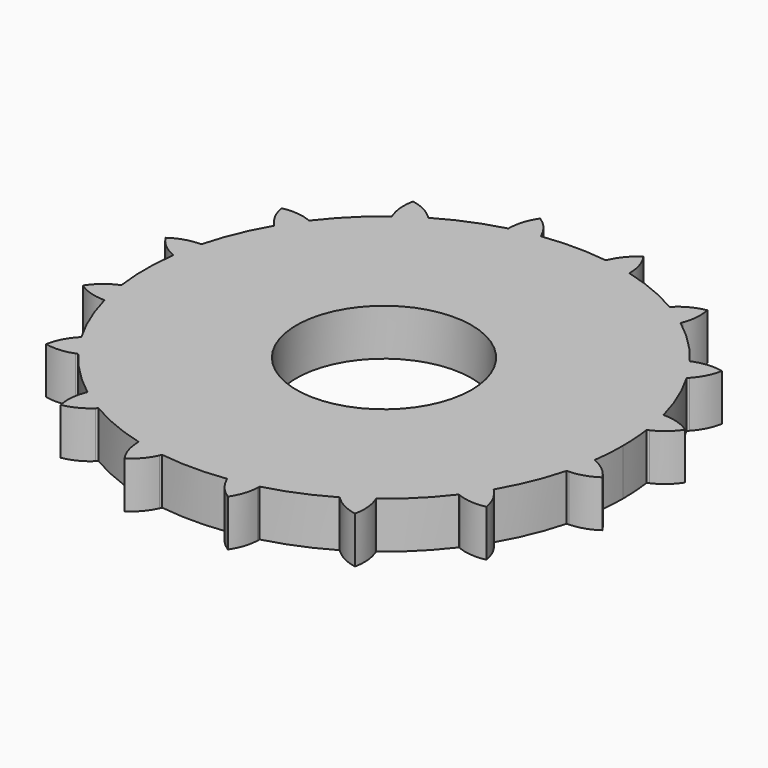
from build123d import *

# Parameters (mm, degrees)
F0_R     = 44.45
F0_R_2   = 25.4
F0_R_3   = 11.9340457022
F1_DEPTH = 6.35
F3_DEPTH = 6.35


with BuildPart() as f1:
    # F0 (on Top) → F1 (new body)
    with BuildSketch(Plane.XY):
        Circle(F0_R)
        Circle(F0_R_2, mode=Mode.SUBTRACT)
        Circle(F0_R_2)
        Circle(F0_R_3, mode=Mode.SUBTRACT)
    extrude(amount=F1_DEPTH)

    # F2 (on face) → F3 (intersect)
    with BuildSketch(Plane.XY.offset(6.35)):
        with BuildLine():
            ThreePointArc((32.2468627383, -4.4327027358), (32.4742021983, -2.2215313627), (32.5501, 0))
            ThreePointArc((32.5501, 0), (32.4742021983, 2.2215313627), (32.2468627383, 4.4327027358))
            ThreePointArc((32.2468627383, 4.4327027358), (31.1168279297, 3.8288728943), (30.0699408338, 3.0902142758))
            ThreePointArc((30.0699408338, 3.0902142758), (28.5877, 0), (30.0699408338, -3.0902142758))
            ThreePointArc((30.0699408338, -3.0902142758), (31.1168279297, -3.8288728943), (32.2468627383, -4.4327027358))
        make_face()
        with BuildLine():
            ThreePointArc((30.0699408338, 3.0902142758), (31.1168279297, 3.8288728943), (32.2468627383, 4.4327027358))
            ThreePointArc((32.2468627383, 4.4327027358), (31.9246589557, 6.3502094907), (31.4885383693, 8.2450567844))
            ThreePointArc((31.4885383693, 8.2450567844), (30.2134466622, 8.3704772169), (28.963576686, 8.6522824488))
            ThreePointArc((28.963576686, 8.6522824488), (26.4115909116, 10.9400391594), (26.5984290744, 14.3622538898))
            ThreePointArc((26.5984290744, 14.3622538898), (27.2829542197, 15.4453118161), (28.0958945741, 16.4356234471))
            ThreePointArc((28.0958945741, 16.4356234471), (27.0644190274, 18.0838666418), (25.9363694778, 19.6675811508))
            ThreePointArc((25.9363694778, 19.6675811508), (24.710342026, 19.2954980503), (23.4477705432, 19.0775476037))
            ThreePointArc((23.4477705432, 19.0775476037), (20.2145565285, 20.2145565285), (19.0775476037, 23.4477705432))
            ThreePointArc((19.0775476037, 23.4477705432), (19.2954980503, 24.710342026), (19.6675811508, 25.9363694778))
            ThreePointArc((19.6675811508, 25.9363694778), (18.0838666418, 27.0644190274), (16.4356234471, 28.0958945741))
            ThreePointArc((16.4356234471, 28.0958945741), (15.4453118161, 27.2829542197), (14.3622538898, 26.5984290744))
            ThreePointArc((14.3622538898, 26.5984290744), (10.9400391594, 26.4115909116), (8.6522824488, 28.963576686))
            ThreePointArc((8.6522824488, 28.963576686), (8.3704772169, 30.2134466622), (8.2450567844, 31.4885383693))
            ThreePointArc((8.2450567844, 31.4885383693), (6.3502094907, 31.9246589557), (4.4327027358, 32.2468627383))
            ThreePointArc((4.4327027358, 32.2468627383), (3.8288728943, 31.1168279297), (3.0902142758, 30.0699408338))
            ThreePointArc((3.0902142758, 30.0699408338), (0, 28.5877), (-3.0902142758, 30.0699408338))
            ThreePointArc((-3.0902142758, 30.0699408338), (-3.8288728943, 31.1168279297), (-4.4327027358, 32.2468627383))
            ThreePointArc((-4.4327027358, 32.2468627383), (-6.3502094907, 31.9246589557), (-8.2450567844, 31.4885383693))
            ThreePointArc((-8.2450567844, 31.4885383693), (-8.3704772169, 30.2134466622), (-8.6522824488, 28.963576686))
            ThreePointArc((-8.6522824488, 28.963576686), (-10.9400391594, 26.4115909116), (-14.3622538898, 26.5984290744))
            ThreePointArc((-14.3622538898, 26.5984290744), (-15.4453118161, 27.2829542197), (-16.4356234471, 28.0958945741))
            ThreePointArc((-16.4356234471, 28.0958945741), (-18.0838666418, 27.0644190274), (-19.6675811508, 25.9363694778))
            ThreePointArc((-19.6675811508, 25.9363694778), (-19.2954980503, 24.710342026), (-19.0775476037, 23.4477705432))
            ThreePointArc((-19.0775476037, 23.4477705432), (-20.2145565285, 20.2145565285), (-23.4477705432, 19.0775476037))
            ThreePointArc((-23.4477705432, 19.0775476037), (-24.710342026, 19.2954980503), (-25.9363694778, 19.6675811508))
            ThreePointArc((-25.9363694778, 19.6675811508), (-27.0644190274, 18.0838666418), (-28.0958945741, 16.4356234471))
            ThreePointArc((-28.0958945741, 16.4356234471), (-27.2829542197, 15.4453118161), (-26.5984290744, 14.3622538898))
            ThreePointArc((-26.5984290744, 14.3622538898), (-26.4115909116, 10.9400391594), (-28.963576686, 8.6522824488))
            ThreePointArc((-28.963576686, 8.6522824488), (-30.2134466622, 8.3704772169), (-31.4885383693, 8.2450567844))
            ThreePointArc((-31.4885383693, 8.2450567844), (-31.9246589557, 6.3502094907), (-32.2468627383, 4.4327027358))
            ThreePointArc((-32.2468627383, 4.4327027358), (-31.1168279297, 3.8288728943), (-30.0699408338, 3.0902142758))
            ThreePointArc((-30.0699408338, 3.0902142758), (-28.5877, 0), (-30.0699408338, -3.0902142758))
            ThreePointArc((-30.0699408338, -3.0902142758), (-31.1168279297, -3.8288728943), (-32.2468627383, -4.4327027358))
            ThreePointArc((-32.2468627383, -4.4327027358), (-31.9246589557, -6.3502094907), (-31.4885383693, -8.2450567844))
            ThreePointArc((-31.4885383693, -8.2450567844), (-30.2134466622, -8.3704772169), (-28.963576686, -8.6522824488))
            ThreePointArc((-28.963576686, -8.6522824488), (-26.4115909116, -10.9400391594), (-26.5984290744, -14.3622538898))
            ThreePointArc((-26.5984290744, -14.3622538898), (-27.2829542197, -15.4453118161), (-28.0958945741, -16.4356234471))
            ThreePointArc((-28.0958945741, -16.4356234471), (-27.0644190274, -18.0838666418), (-25.9363694778, -19.6675811508))
            ThreePointArc((-25.9363694778, -19.6675811508), (-24.710342026, -19.2954980503), (-23.4477705432, -19.0775476037))
            ThreePointArc((-23.4477705432, -19.0775476037), (-20.2145565285, -20.2145565285), (-19.0775476037, -23.4477705432))
            ThreePointArc((-19.0775476037, -23.4477705432), (-19.2954980503, -24.710342026), (-19.6675811508, -25.9363694778))
            ThreePointArc((-19.6675811508, -25.9363694778), (-18.0838666418, -27.0644190274), (-16.4356234471, -28.0958945741))
            ThreePointArc((-16.4356234471, -28.0958945741), (-15.4453118161, -27.2829542197), (-14.3622538898, -26.5984290744))
            ThreePointArc((-14.3622538898, -26.5984290744), (-10.9400391594, -26.4115909116), (-8.6522824488, -28.963576686))
            ThreePointArc((-8.6522824488, -28.963576686), (-8.3704772169, -30.2134466622), (-8.2450567844, -31.4885383693))
            ThreePointArc((-8.2450567844, -31.4885383693), (-6.3502094907, -31.9246589557), (-4.4327027358, -32.2468627383))
            ThreePointArc((-4.4327027358, -32.2468627383), (-3.8288728943, -31.1168279297), (-3.0902142758, -30.0699408338))
            ThreePointArc((-3.0902142758, -30.0699408338), (0, -28.5877), (3.0902142758, -30.0699408338))
            ThreePointArc((3.0902142758, -30.0699408338), (3.8288728943, -31.1168279297), (4.4327027358, -32.2468627383))
            ThreePointArc((4.4327027358, -32.2468627383), (6.3502094907, -31.9246589557), (8.2450567844, -31.4885383693))
            ThreePointArc((8.2450567844, -31.4885383693), (8.3704772169, -30.2134466622), (8.6522824488, -28.963576686))
            ThreePointArc((8.6522824488, -28.963576686), (10.9400391594, -26.4115909116), (14.3622538898, -26.5984290744))
            ThreePointArc((14.3622538898, -26.5984290744), (15.4453118161, -27.2829542197), (16.4356234471, -28.0958945741))
            ThreePointArc((16.4356234471, -28.0958945741), (18.0838666418, -27.0644190274), (19.6675811508, -25.9363694778))
            ThreePointArc((19.6675811508, -25.9363694778), (19.2954980503, -24.710342026), (19.0775476037, -23.4477705432))
            ThreePointArc((19.0775476037, -23.4477705432), (20.2145565285, -20.2145565285), (23.4477705432, -19.0775476037))
            ThreePointArc((23.4477705432, -19.0775476037), (24.710342026, -19.2954980503), (25.9363694778, -19.6675811508))
            ThreePointArc((25.9363694778, -19.6675811508), (27.0644190274, -18.0838666418), (28.0958945741, -16.4356234471))
            ThreePointArc((28.0958945741, -16.4356234471), (27.2829542197, -15.4453118161), (26.5984290744, -14.3622538898))
            ThreePointArc((26.5984290744, -14.3622538898), (26.4115909116, -10.9400391594), (28.963576686, -8.6522824488))
            ThreePointArc((28.963576686, -8.6522824488), (30.2134466622, -8.3704772169), (31.4885383693, -8.2450567844))
            ThreePointArc((31.4885383693, -8.2450567844), (31.9246589557, -6.3502094907), (32.2468627383, -4.4327027358))
            ThreePointArc((32.2468627383, -4.4327027358), (31.1168279297, -3.8288728943), (30.0699408338, -3.0902142758))
            ThreePointArc((30.0699408338, -3.0902142758), (28.5877, 0), (30.0699408338, 3.0902142758))
        make_face()
        with BuildLine():
            ThreePointArc((31.4885383693, 8.2450567844), (31.9246589557, 6.3502094907), (32.2468627383, 4.4327027358))
            Line((32.2468627383, 4.4327027358), (32.5415226488, 4.5656185547))
            ThreePointArc((32.5415226488, 4.5656185547), (34.1510381023, 5.5942061718), (35.3980380551, 7.0411075501))
            ThreePointArc((35.3980380551, 7.0411075501), (33.6922551359, 7.900663897), (31.8116333114, 8.2350200457))
            Line((31.8116333114, 8.2350200457), (31.4885383693, 8.2450567844))
        make_face()
        with BuildLine():
            Line((32.5415226488, -4.5656185547), (32.2468627383, -4.4327027358))
            ThreePointArc((32.2468627383, -4.4327027358), (31.9246589557, -6.3502094907), (31.4885383693, -8.2450567844))
            Line((31.4885383693, -8.2450567844), (31.8116333114, -8.2350200457))
            ThreePointArc((31.8116333114, -8.2350200457), (33.6922551359, -7.900663897), (35.3980380551, -7.0411075501))
            ThreePointArc((35.3980380551, -7.0411075501), (34.1510381023, -5.5942061718), (32.5415226488, -4.5656185547))
        make_face()
        with BuildLine():
            ThreePointArc((28.963576686, 8.6522824488), (30.2134466622, 8.3704772169), (31.4885383693, 8.2450567844))
            ThreePointArc((31.4885383693, 8.2450567844), (30.0723711712, 12.4563839918), (28.0958945741, 16.4356234471))
            ThreePointArc((28.0958945741, 16.4356234471), (27.2829542197, 15.4453118161), (26.5984290744, 14.3622538898))
            ThreePointArc((26.5984290744, 14.3622538898), (26.4115909116, 10.9400391594), (28.963576686, 8.6522824488))
        make_face()
        with BuildLine():
            ThreePointArc((28.0958945741, -16.4356234471), (30.0723711712, -12.4563839918), (31.4885383693, -8.2450567844))
            ThreePointArc((31.4885383693, -8.2450567844), (30.2134466622, -8.3704772169), (28.963576686, -8.6522824488))
            ThreePointArc((28.963576686, -8.6522824488), (26.4115909116, -10.9400391594), (26.5984290744, -14.3622538898))
            ThreePointArc((26.5984290744, -14.3622538898), (27.2829542197, -15.4453118161), (28.0958945741, -16.4356234471))
        make_face()
        with BuildLine():
            ThreePointArc((25.9363694778, 19.6675811508), (27.0644190274, 18.0838666418), (28.0958945741, 16.4356234471))
            Line((28.0958945741, 16.4356234471), (28.3172601526, 16.6711831176))
            ThreePointArc((28.3172601526, 16.6711831176), (29.4106350975, 18.2374090626), (30.0090076452, 20.0513778537))
            ThreePointArc((30.0090076452, 20.0513778537), (28.1041317461, 20.1927295073), (26.2387111755, 19.7819514948))
            Line((26.2387111755, 19.7819514948), (25.9363694778, 19.6675811508))
        make_face()
        with BuildLine():
            Line((28.3172601526, -16.6711831176), (28.0958945741, -16.4356234471))
            ThreePointArc((28.0958945741, -16.4356234471), (27.0644190274, -18.0838666418), (25.9363694778, -19.6675811508))
            Line((25.9363694778, -19.6675811508), (26.2387111755, -19.7819514948))
            ThreePointArc((26.2387111755, -19.7819514948), (28.1041317461, -20.1927295073), (30.0090076452, -20.0513778537))
            ThreePointArc((30.0090076452, -20.0513778537), (29.4106350975, -18.2374090626), (28.3172601526, -16.6711831176))
        make_face()
        with BuildLine():
            ThreePointArc((23.4477705432, 19.0775476037), (24.710342026, 19.2954980503), (25.9363694778, 19.6675811508))
            ThreePointArc((25.9363694778, 19.6675811508), (23.0163964383, 23.0163964383), (19.6675811508, 25.9363694778))
            ThreePointArc((19.6675811508, 25.9363694778), (19.2954980503, 24.710342026), (19.0775476037, 23.4477705432))
            ThreePointArc((19.0775476037, 23.4477705432), (20.2145565285, 20.2145565285), (23.4477705432, 19.0775476037))
        make_face()
        with BuildLine():
            ThreePointArc((19.6675811508, -25.9363694778), (23.0163964383, -23.0163964383), (25.9363694778, -19.6675811508))
            ThreePointArc((25.9363694778, -19.6675811508), (24.710342026, -19.2954980503), (23.4477705432, -19.0775476037))
            ThreePointArc((23.4477705432, -19.0775476037), (20.2145565285, -20.2145565285), (19.0775476037, -23.4477705432))
            ThreePointArc((19.0775476037, -23.4477705432), (19.2954980503, -24.710342026), (19.6675811508, -25.9363694778))
        make_face()
        with BuildLine():
            ThreePointArc((16.4356234471, 28.0958945741), (18.0838666418, 27.0644190274), (19.6675811508, 25.9363694778))
            Line((19.6675811508, 25.9363694778), (19.7819514948, 26.2387111755))
            ThreePointArc((19.7819514948, 26.2387111755), (20.1927295073, 28.1041317461), (20.0513778537, 30.0090076452))
            ThreePointArc((20.0513778537, 30.0090076452), (18.2374090626, 29.4106350975), (16.6711831176, 28.3172601526))
            Line((16.6711831176, 28.3172601526), (16.4356234471, 28.0958945741))
        make_face()
        with BuildLine():
            Line((19.7819514948, -26.2387111755), (19.6675811508, -25.9363694778))
            ThreePointArc((19.6675811508, -25.9363694778), (18.0838666418, -27.0644190274), (16.4356234471, -28.0958945741))
            Line((16.4356234471, -28.0958945741), (16.6711831176, -28.3172601526))
            ThreePointArc((16.6711831176, -28.3172601526), (18.2374090626, -29.4106350975), (20.0513778537, -30.0090076452))
            ThreePointArc((20.0513778537, -30.0090076452), (20.1927295073, -28.1041317461), (19.7819514948, -26.2387111755))
        make_face()
        with BuildLine():
            ThreePointArc((14.3622538898, 26.5984290744), (15.4453118161, 27.2829542197), (16.4356234471, 28.0958945741))
            ThreePointArc((16.4356234471, 28.0958945741), (12.4563839918, 30.0723711712), (8.2450567844, 31.4885383693))
            ThreePointArc((8.2450567844, 31.4885383693), (8.3704772169, 30.2134466622), (8.6522824488, 28.963576686))
            ThreePointArc((8.6522824488, 28.963576686), (10.9400391594, 26.4115909116), (14.3622538898, 26.5984290744))
        make_face()
        with BuildLine():
            ThreePointArc((8.2450567844, -31.4885383693), (12.4563839918, -30.0723711712), (16.4356234471, -28.0958945741))
            ThreePointArc((16.4356234471, -28.0958945741), (15.4453118161, -27.2829542197), (14.3622538898, -26.5984290744))
            ThreePointArc((14.3622538898, -26.5984290744), (10.9400391594, -26.4115909116), (8.6522824488, -28.963576686))
            ThreePointArc((8.6522824488, -28.963576686), (8.3704772169, -30.2134466622), (8.2450567844, -31.4885383693))
        make_face()
        with BuildLine():
            ThreePointArc((4.4327027358, 32.2468627383), (6.3502094907, 31.9246589557), (8.2450567844, 31.4885383693))
            Line((8.2450567844, 31.4885383693), (8.2350200457, 31.8116333114))
            ThreePointArc((8.2350200457, 31.8116333114), (7.900663897, 33.6922551359), (7.0411075501, 35.3980380551))
            ThreePointArc((7.0411075501, 35.3980380551), (5.5942061718, 34.1510381023), (4.5656185547, 32.5415226488))
            Line((4.5656185547, 32.5415226488), (4.4327027358, 32.2468627383))
        make_face()
        with BuildLine():
            Line((8.2350200457, -31.8116333114), (8.2450567844, -31.4885383693))
            ThreePointArc((8.2450567844, -31.4885383693), (6.3502094907, -31.9246589557), (4.4327027358, -32.2468627383))
            Line((4.4327027358, -32.2468627383), (4.5656185547, -32.5415226488))
            ThreePointArc((4.5656185547, -32.5415226488), (5.5942061718, -34.1510381023), (7.0411075501, -35.3980380551))
            ThreePointArc((7.0411075501, -35.3980380551), (7.900663897, -33.6922551359), (8.2350200457, -31.8116333114))
        make_face()
        with BuildLine():
            ThreePointArc((3.0902142758, 30.0699408338), (3.8288728943, 31.1168279297), (4.4327027358, 32.2468627383))
            ThreePointArc((4.4327027358, 32.2468627383), (0, 32.5501), (-4.4327027358, 32.2468627383))
            ThreePointArc((-4.4327027358, 32.2468627383), (-3.8288728943, 31.1168279297), (-3.0902142758, 30.0699408338))
            ThreePointArc((-3.0902142758, 30.0699408338), (0, 28.5877), (3.0902142758, 30.0699408338))
        make_face()
        with BuildLine():
            ThreePointArc((-4.4327027358, -32.2468627383), (0, -32.5501), (4.4327027358, -32.2468627383))
            ThreePointArc((4.4327027358, -32.2468627383), (3.8288728943, -31.1168279297), (3.0902142758, -30.0699408338))
            ThreePointArc((3.0902142758, -30.0699408338), (0, -28.5877), (-3.0902142758, -30.0699408338))
            ThreePointArc((-3.0902142758, -30.0699408338), (-3.8288728943, -31.1168279297), (-4.4327027358, -32.2468627383))
        make_face()
        with BuildLine():
            ThreePointArc((-8.2450567844, 31.4885383693), (-6.3502094907, 31.9246589557), (-4.4327027358, 32.2468627383))
            Line((-4.4327027358, 32.2468627383), (-4.4568878106, 32.3001493474))
            Line((-4.4568878106, 32.3001493474), (-4.5656185547, 32.5415226488))
            ThreePointArc((-4.5656185547, 32.5415226488), (-5.5942061718, 34.1510381023), (-7.0411075501, 35.3980380551))
            ThreePointArc((-7.0411075501, 35.3980380551), (-7.900663897, 33.6922551359), (-8.2350200457, 31.8116333114))
            Line((-8.2350200457, 31.8116333114), (-8.2450567844, 31.4885383693))
        make_face()
        Polygon((-4.4568878106, 32.3001493474), (-4.4327027358, 32.2468627383), (-4.5656185547, 32.5415226488), align=None)
        with BuildLine():
            Line((-4.5656185547, -32.5415226488), (-4.4327027358, -32.2468627383))
            ThreePointArc((-4.4327027358, -32.2468627383), (-6.3502094907, -31.9246589557), (-8.2450567844, -31.4885383693))
            Line((-8.2450567844, -31.4885383693), (-8.2350200457, -31.8116333114))
            ThreePointArc((-8.2350200457, -31.8116333114), (-7.900663897, -33.6922551359), (-7.0411075501, -35.3980380551))
            ThreePointArc((-7.0411075501, -35.3980380551), (-5.5942061718, -34.1510381023), (-4.5656185547, -32.5415226488))
        make_face()
        with BuildLine():
            ThreePointArc((-8.6522824488, 28.963576686), (-8.3704772169, 30.2134466622), (-8.2450567844, 31.4885383693))
            ThreePointArc((-8.2450567844, 31.4885383693), (-12.4563839918, 30.0723711712), (-16.4356234471, 28.0958945741))
            ThreePointArc((-16.4356234471, 28.0958945741), (-15.4453118161, 27.2829542197), (-14.3622538898, 26.5984290744))
            ThreePointArc((-14.3622538898, 26.5984290744), (-10.9400391594, 26.4115909116), (-8.6522824488, 28.963576686))
        make_face()
        with BuildLine():
            ThreePointArc((-16.4356234471, -28.0958945741), (-12.4563839918, -30.0723711712), (-8.2450567844, -31.4885383693))
            ThreePointArc((-8.2450567844, -31.4885383693), (-8.3704772169, -30.2134466622), (-8.6522824488, -28.963576686))
            ThreePointArc((-8.6522824488, -28.963576686), (-10.9400391594, -26.4115909116), (-14.3622538898, -26.5984290744))
            ThreePointArc((-14.3622538898, -26.5984290744), (-15.4453118161, -27.2829542197), (-16.4356234471, -28.0958945741))
        make_face()
        with BuildLine():
            ThreePointArc((-19.6675811508, 25.9363694778), (-18.0838666418, 27.0644190274), (-16.4356234471, 28.0958945741))
            Line((-16.4356234471, 28.0958945741), (-16.6711831176, 28.3172601526))
            ThreePointArc((-16.6711831176, 28.3172601526), (-18.2374090626, 29.4106350975), (-20.0513778537, 30.0090076452))
            ThreePointArc((-20.0513778537, 30.0090076452), (-20.1927295073, 28.1041317461), (-19.7819514948, 26.2387111755))
            Line((-19.7819514948, 26.2387111755), (-19.6675811508, 25.9363694778))
        make_face()
        with BuildLine():
            Line((-16.6711831176, -28.3172601526), (-16.4356234471, -28.0958945741))
            ThreePointArc((-16.4356234471, -28.0958945741), (-18.0838666418, -27.0644190274), (-19.6675811508, -25.9363694778))
            Line((-19.6675811508, -25.9363694778), (-19.7819514948, -26.2387111755))
            ThreePointArc((-19.7819514948, -26.2387111755), (-20.1927295073, -28.1041317461), (-20.0513778537, -30.0090076452))
            ThreePointArc((-20.0513778537, -30.0090076452), (-18.2374090626, -29.4106350975), (-16.6711831176, -28.3172601526))
        make_face()
        with BuildLine():
            ThreePointArc((-19.0775476037, 23.4477705432), (-19.2954980503, 24.710342026), (-19.6675811508, 25.9363694778))
            ThreePointArc((-19.6675811508, 25.9363694778), (-23.0163964383, 23.0163964383), (-25.9363694778, 19.6675811508))
            ThreePointArc((-25.9363694778, 19.6675811508), (-24.710342026, 19.2954980503), (-23.4477705432, 19.0775476037))
            ThreePointArc((-23.4477705432, 19.0775476037), (-20.2145565285, 20.2145565285), (-19.0775476037, 23.4477705432))
        make_face()
        with BuildLine():
            ThreePointArc((-25.9363694778, -19.6675811508), (-23.0163964383, -23.0163964383), (-19.6675811508, -25.9363694778))
            ThreePointArc((-19.6675811508, -25.9363694778), (-19.2954980503, -24.710342026), (-19.0775476037, -23.4477705432))
            ThreePointArc((-19.0775476037, -23.4477705432), (-20.2145565285, -20.2145565285), (-23.4477705432, -19.0775476037))
            ThreePointArc((-23.4477705432, -19.0775476037), (-24.710342026, -19.2954980503), (-25.9363694778, -19.6675811508))
        make_face()
        with BuildLine():
            ThreePointArc((-28.0958945741, 16.4356234471), (-27.0644190274, 18.0838666418), (-25.9363694778, 19.6675811508))
            Line((-25.9363694778, 19.6675811508), (-26.2387111755, 19.7819514948))
            ThreePointArc((-26.2387111755, 19.7819514948), (-28.1041317461, 20.1927295073), (-30.0090076452, 20.0513778537))
            ThreePointArc((-30.0090076452, 20.0513778537), (-29.4106350975, 18.2374090626), (-28.3172601526, 16.6711831176))
            Line((-28.3172601526, 16.6711831176), (-28.0958945741, 16.4356234471))
        make_face()
        with BuildLine():
            Line((-26.2387111755, -19.7819514948), (-25.9363694778, -19.6675811508))
            ThreePointArc((-25.9363694778, -19.6675811508), (-27.0644190274, -18.0838666418), (-28.0958945741, -16.4356234471))
            Line((-28.0958945741, -16.4356234471), (-28.3172601526, -16.6711831176))
            ThreePointArc((-28.3172601526, -16.6711831176), (-29.4106350975, -18.2374090626), (-30.0090076452, -20.0513778537))
            ThreePointArc((-30.0090076452, -20.0513778537), (-28.1041317461, -20.1927295073), (-26.2387111755, -19.7819514948))
        make_face()
        with BuildLine():
            ThreePointArc((-26.5984290744, 14.3622538898), (-27.2829542197, 15.4453118161), (-28.0958945741, 16.4356234471))
            ThreePointArc((-28.0958945741, 16.4356234471), (-30.0723711712, 12.4563839918), (-31.4885383693, 8.2450567844))
            ThreePointArc((-31.4885383693, 8.2450567844), (-30.2134466622, 8.3704772169), (-28.963576686, 8.6522824488))
            ThreePointArc((-28.963576686, 8.6522824488), (-26.4115909116, 10.9400391594), (-26.5984290744, 14.3622538898))
        make_face()
        with BuildLine():
            ThreePointArc((-31.4885383693, -8.2450567844), (-30.0723711712, -12.4563839918), (-28.0958945741, -16.4356234471))
            ThreePointArc((-28.0958945741, -16.4356234471), (-27.2829542197, -15.4453118161), (-26.5984290744, -14.3622538898))
            ThreePointArc((-26.5984290744, -14.3622538898), (-26.4115909116, -10.9400391594), (-28.963576686, -8.6522824488))
            ThreePointArc((-28.963576686, -8.6522824488), (-30.2134466622, -8.3704772169), (-31.4885383693, -8.2450567844))
        make_face()
        with BuildLine():
            ThreePointArc((-32.2468627383, 4.4327027358), (-31.9246589557, 6.3502094907), (-31.4885383693, 8.2450567844))
            Line((-31.4885383693, 8.2450567844), (-31.8116333114, 8.2350200457))
            ThreePointArc((-31.8116333114, 8.2350200457), (-33.6922551359, 7.900663897), (-35.3980380551, 7.0411075501))
            ThreePointArc((-35.3980380551, 7.0411075501), (-34.1510381023, 5.5942061718), (-32.5415226488, 4.5656185547))
            Line((-32.5415226488, 4.5656185547), (-32.2468627383, 4.4327027358))
        make_face()
        with BuildLine():
            Line((-31.8116333114, -8.2350200457), (-31.4885383693, -8.2450567844))
            ThreePointArc((-31.4885383693, -8.2450567844), (-31.9246589557, -6.3502094907), (-32.2468627383, -4.4327027358))
            Line((-32.2468627383, -4.4327027358), (-32.5415226488, -4.5656185547))
            ThreePointArc((-32.5415226488, -4.5656185547), (-34.1510381023, -5.5942061718), (-35.3980380551, -7.0411075501))
            ThreePointArc((-35.3980380551, -7.0411075501), (-33.6922551359, -7.900663897), (-31.8116333114, -8.2350200457))
        make_face()
        with BuildLine():
            ThreePointArc((-30.0699408338, 3.0902142758), (-31.1168279297, 3.8288728943), (-32.2468627383, 4.4327027358))
            ThreePointArc((-32.2468627383, 4.4327027358), (-32.5501, 0), (-32.2468627383, -4.4327027358))
            ThreePointArc((-32.2468627383, -4.4327027358), (-31.1168279297, -3.8288728943), (-30.0699408338, -3.0902142758))
            ThreePointArc((-30.0699408338, -3.0902142758), (-28.5877, 0), (-30.0699408338, 3.0902142758))
        make_face()
    extrude(amount=-F3_DEPTH, mode=Mode.INTERSECT)


solid = f1.part
